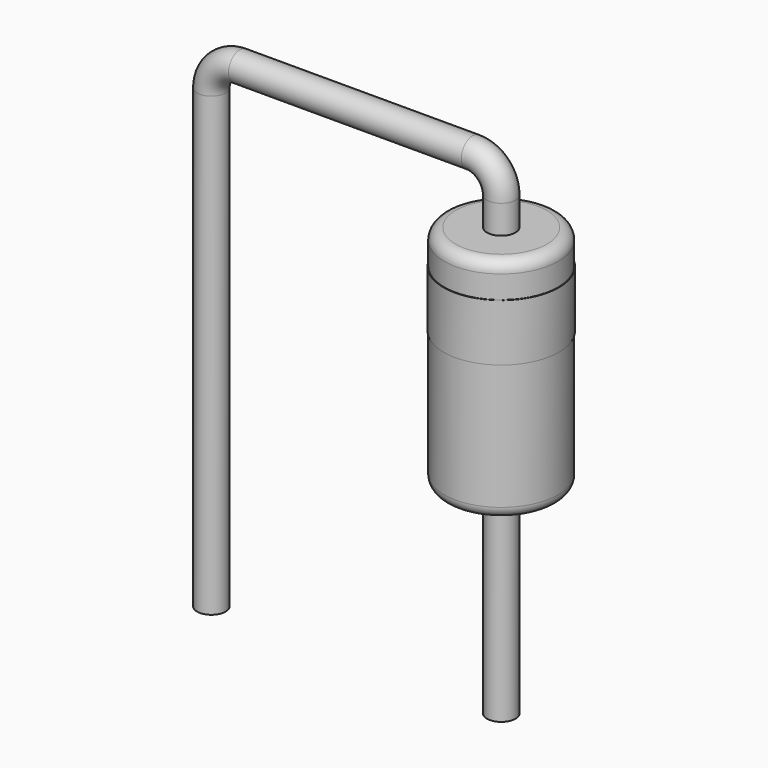
from build123d import *

# Parameters (mm, degrees)
SKETCH001_R = 0.25
SKETCH003_W = 0.02
SKETCH003_H = 1
SKETCH002_W = 1
SKETCH002_H = 4
FILLET_R    = 0.2


with BuildPart() as sweep_body:
    # Sweep: sweep along a path in Sketch
    with BuildLine(Plane.XZ) as sweep_path:
        Line((0, -3), (0, 5))
        ThreePointArc((0, 5), (0.146447, 5.353553), (0.5, 5.5))
        Line((0.5, 5.5), (4.58, 5.5))
        ThreePointArc((4.58, 5.5), (4.933553, 5.353553), (5.08, 5))
        Line((5.08, 5), (5.08, -3))
    # Sketch001 → Sweep (sweep)
    with BuildSketch(Plane.XY):
        Circle(SKETCH001_R)
    sweep(path=sweep_path.line)


with BuildPart() as revolution001:
    # Sketch003 → Revolution001 (revolve)
    with BuildSketch(Plane.XZ):
        with Locations((6.08, 3.4)):
            Rectangle(SKETCH003_W, SKETCH003_H)
    revolve(axis=Axis((5.08, 0, 5.9), (0, 0, 1)))


with BuildPart() as fillet_body:
    # Sketch002 → Revolution (revolve)
    with BuildSketch(Plane.XZ):
        with Locations((5.58, 2.5)):
            Rectangle(SKETCH002_W, SKETCH002_H)
    revolve(axis=Axis((5.08, 0, 0.5), (0, 0, 1)))

    # Fillet
    fillet_edges = [fillet_body.edges().sort_by_distance(p)[0] for p in [
        (4.08, 0, 4.5),
        (4.08, 0, 0.5),
    ]]
    fillet(fillet_edges, radius=FILLET_R)


solid = Compound([sweep_body.part, revolution001.part, fillet_body.part])
